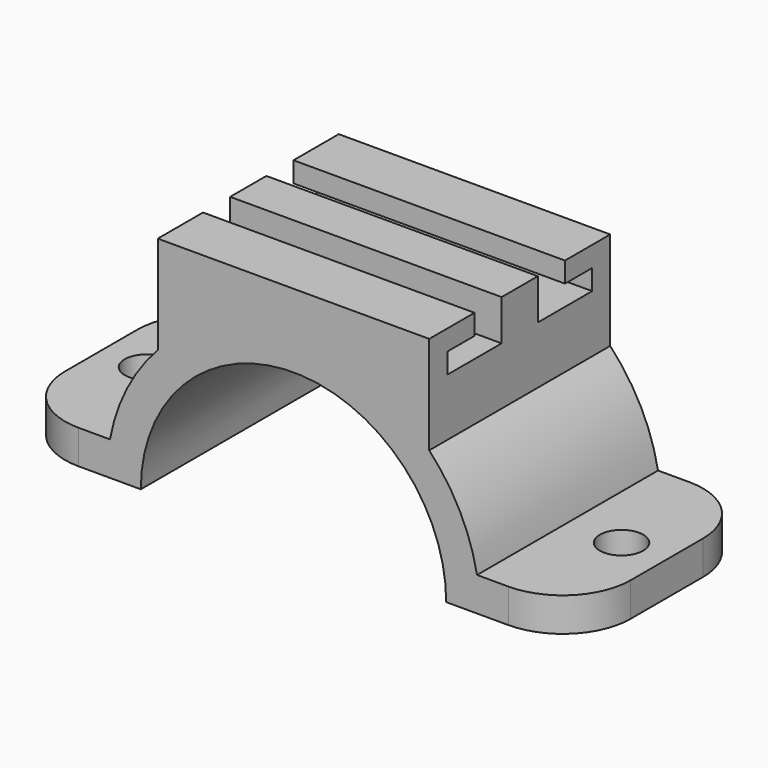
from build123d import *

# Parameters (mm, degrees)
F1_DEPTH = 20
F2_R     = 6
F3_R     = 1.917143
F4_DEPTH = 25
F6_DEPTH = 20
F8_DEPTH = 12.5


with BuildPart() as f1:
    # F0 (on Front) → F1 (new body)
    with BuildSketch(Plane.XZ):
        with BuildLine():
            Line((-25, 3), (-25, 0))
            Line((-25, 0), (-13.5, 0))
            ThreePointArc((-13.5, 0), (0, 13.5), (13.5, 0))
            Line((13.5, 0), (25, 0))
            Line((25, 0), (25, 3))
            Line((25, 3), (16.224981, 3))
            ThreePointArc((16.224981, 3), (0, 16.5), (-16.224981, 3))
            Line((-16.224981, 3), (-25, 3))
        make_face()
    extrude(amount=F1_DEPTH)

    # F2
    f2_edges = [f1.edges().sort_by_distance(p)[0] for p in [
        (25, -20, 1.5),
        (25, 0, 1.5),
        (-25, -20, 1.5),
        (-25, 0, 1.5),
    ]]
    fillet(f2_edges, radius=F2_R)

    # F3 (on face) → F4 (cut)
    with BuildSketch(Plane.XY.offset(3)):
        with Locations((-21, -10)):
            Circle(F3_R)
        with Locations((21, -10)):
            Circle(F3_R)
    extrude(amount=-F4_DEPTH, mode=Mode.SUBTRACT)

    # F5 (on Front) → F6 (join)
    with BuildSketch(Plane.XZ):
        with BuildLine():
            Line((12, 20), (-12, 20))
            Line((-12, 20), (-12, 10.583005))
            ThreePointArc((-12, 10.583005), (0, 16), (12, 10.583005))
            Line((12, 10.583005), (12, 20))
        make_face()
    extrude(amount=F6_DEPTH)

    # F7 (on Right) → F8 (cut, symmetric)
    with BuildSketch(Plane.YZ):
        Polygon((-12, 20), (-15, 20), (-15, 18.2), (-18, 18.2), (-18, 16.4), (-12, 16.4), align=None)
        Polygon((-5, 20), (-8, 20), (-8, 16.4), (-2, 16.4), (-2, 18.2), (-5, 18.2), align=None)
    extrude(amount=F8_DEPTH, both=True, mode=Mode.SUBTRACT)


solid = f1.part
